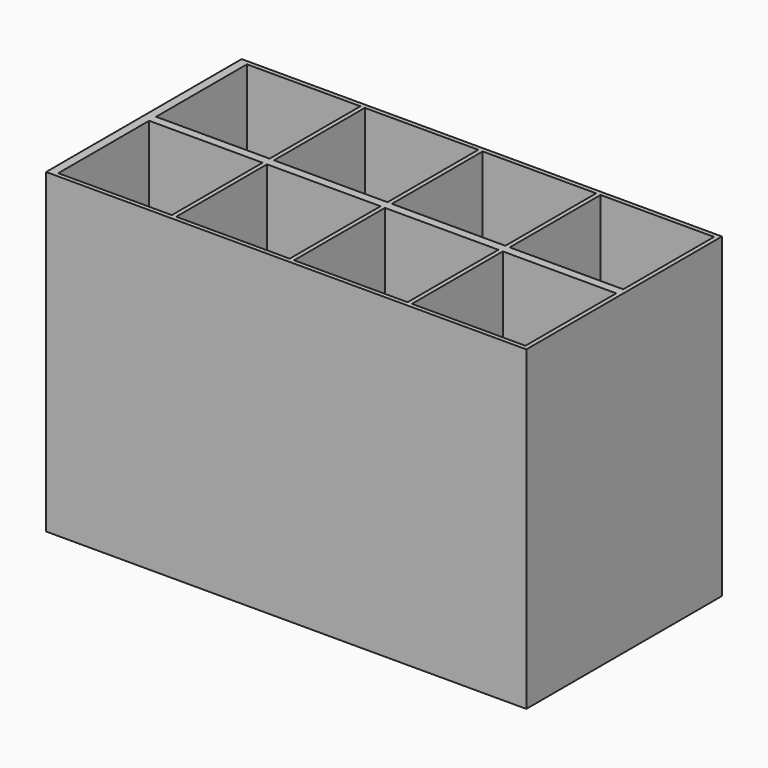
from build123d import *

# Parameters (mm, degrees)
F0_W      = 1397
F0_H      = 355.6
F1_DEPTH  = 920.75
F9_W      = 330.2
F9_H      = 330.2
F10_DEPTH = 279.4
F7_W      = 330.2
F7_H      = 330.2
F11_DEPTH = 279.4
F5_W      = 330.2
F5_H      = 330.2
F12_DEPTH = 279.4
F3_W      = 330.2
F3_H      = 330.2
F13_DEPTH = 279.4


with BuildPart() as f1:
    # F0 (on Top) → F1 (new body)
    with BuildSketch(Plane.XY):
        with Locations((698.5, -177.8)):
            Rectangle(F0_W, F0_H)
    extrude(amount=F1_DEPTH)

    # F9 (on face) → F10 (cut)
    with BuildSketch(Plane.XY.offset(920.75)):
        with Locations((190.5, -177.8)):
            Rectangle(F9_W, F9_H)
    extrude(amount=-F10_DEPTH, mode=Mode.SUBTRACT)

    # F7 (on face) → F11 (cut)
    with BuildSketch(Plane.XY.offset(920.75)):
        with Locations((533.4, -177.8)):
            Rectangle(F7_W, F7_H)
    extrude(amount=-F11_DEPTH, mode=Mode.SUBTRACT)

    # F5 (on face) → F12 (cut)
    with BuildSketch(Plane.XY.offset(920.75)):
        with Locations((876.3, -177.8)):
            Rectangle(F5_W, F5_H)
    extrude(amount=-F12_DEPTH, mode=Mode.SUBTRACT)

    # F3 (on face) → F13 (cut)
    with BuildSketch(Plane.XY.offset(920.75)):
        with Locations((1219.2, -177.8)):
            Rectangle(F3_W, F3_H)
    extrude(amount=-F13_DEPTH, mode=Mode.SUBTRACT)

    # F14: F1 across plane


with BuildPart() as f1_1:
    add(f1.part)
    add(f1.part.mirror(Plane.XZ))


solid = f1_1.part
